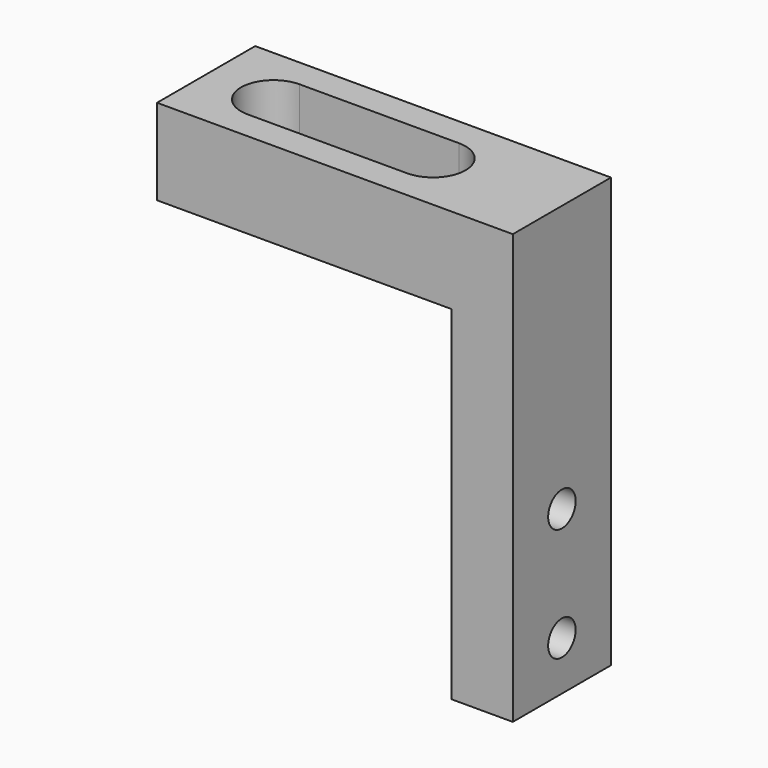
from build123d import *

# Parameters (mm, degrees)
F1_DEPTH = 10
F2_W     = 13
F2_H     = 5.3
F3_DEPTH = 7
F4_R     = 1.4
F5_DEPTH = 5


with BuildPart() as f1:
    # F0 (on Front) → F1 (new body)
    with BuildSketch(Plane.XZ):
        Polygon((29, 0), (0, 0), (0, -7), (24, -7), (24, -35), (29, -35), align=None)
    extrude(amount=F1_DEPTH)

    # F2 (on face) → F3 (cut, through all)
    with BuildSketch(Plane.XY):
        with Locations((12, -5)):
            Rectangle(F2_W, F2_H)
        with BuildLine():
            ThreePointArc((5.5, -2.35), (2.85, -5), (5.5, -7.65))
            Line((5.5, -7.65), (5.5, -2.35))
        make_face()
        with BuildLine():
            Line((18.5, -2.35), (18.5, -7.65))
            ThreePointArc((18.5, -7.65), (21.15, -5), (18.5, -2.35))
        make_face()
    extrude(amount=-F3_DEPTH, mode=Mode.SUBTRACT)

    # F4 (on face) → F5 (cut, through all)
    with BuildSketch(Plane.YZ.offset(29)):
        with Locations((-5, -21.75)):
            Circle(F4_R)
        with Locations((-5, -31)):
            Circle(F4_R)
    extrude(amount=-F5_DEPTH, mode=Mode.SUBTRACT)


solid = f1.part
